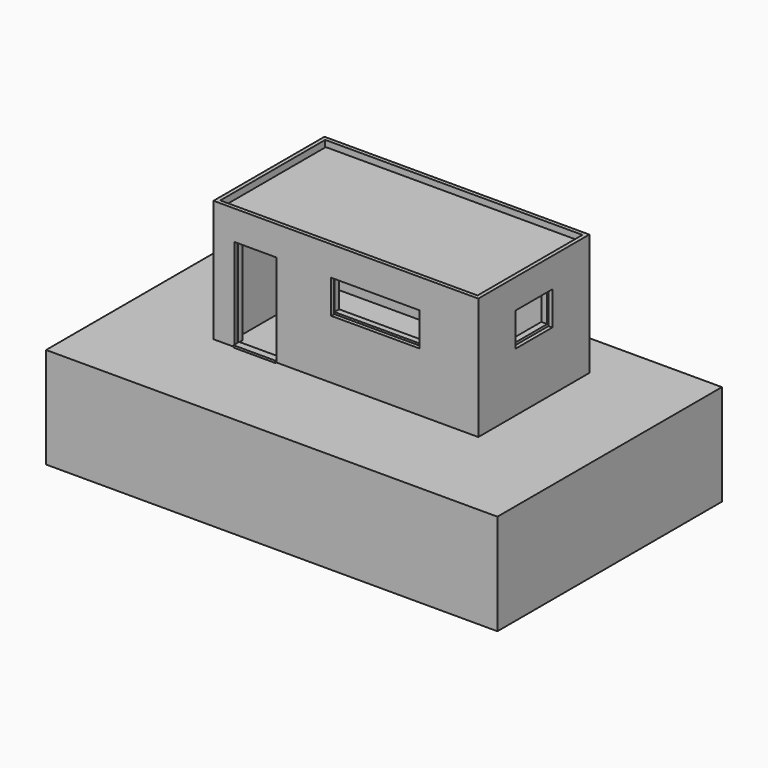
from build123d import *

# Parameters (mm, degrees)
F0_W      = 6500
F0_H      = 3500
F1_DEPTH  = 150
F2_W      = 6300
F2_H      = 3300
F2_W_2    = 6020
F2_H_2    = 3020
F3_DEPTH  = 2100
F4_W      = 6300
F4_H      = 3300
F4_W_2    = 2000
F4_H_2    = 800
F5_DEPTH  = 150
F6_R      = 75
F7_DEPTH  = 6400.001
F8_W      = 6300
F8_H      = 3300
F8_W_2    = 6120
F8_H_2    = 3120
F9_DEPTH  = 2900
F10_W     = 5980
F10_H     = 2980
F10_W_2   = 5700
F10_H_2   = 2700
F11_DEPTH = 2700
F12_W     = 1000
F12_H     = 2200
F12_W_2   = 2100
F12_H_2   = 800
F13_DEPTH = 90
F14_W     = 1100
F14_H     = 2250
F14_W_2   = 2200
F14_H_2   = 850
F15_DEPTH = 140
F16_W     = 1100
F16_H     = 800
F17_DEPTH = 90
F18_W     = 1200
F18_H     = 850
F19_DEPTH = 140
F20_W     = 35
F20_H     = 2980
F21_DEPTH = 180
F22_W     = 5980
F22_H     = 2980
F23_DEPTH = 20
F24_W     = 5980
F24_H     = 2980
F25_DEPTH = 80
F26_W     = 1000
F26_H     = 170
F27_DEPTH = 50
F28_W     = 10738.0881309509
F28_H     = 6676.0444641113
F28_W_2   = 6300
F28_H_2   = 3300
F29_DEPTH = 2400


with BuildPart() as f1:
    # F0 (on Top) → F1 (new body)
    with BuildSketch(Plane.XY):
        Rectangle(F0_W, F0_H)
    extrude(amount=F1_DEPTH)

    # F2 (on face) → F3 (join)
    with BuildSketch(Plane.XY.offset(150)):
        Rectangle(F2_W, F2_H)
        Rectangle(F2_W_2, F2_H_2, mode=Mode.SUBTRACT)
    extrude(amount=F3_DEPTH)

    # F4 (on face) → F5 (join)
    with BuildSketch(Plane.XY.offset(2250)):
        Rectangle(F4_W, F4_H)
        with Locations((1010, -950)):
            Rectangle(F4_W_2, F4_H_2, mode=Mode.SUBTRACT)
    extrude(amount=F5_DEPTH)

    # F6 (on face) → F7 (cut, through all)
    with BuildSketch(Plane(origin=(-3150, 0, 0), x_dir=(0, -1, 0), z_dir=(-1, 0, 0))):
        with Locations((-1340, 2150)):
            Circle(F6_R)
        with Locations((1340, 2150)):
            Circle(F6_R)
    extrude(amount=-F7_DEPTH, mode=Mode.SUBTRACT)


with BuildPart() as f9:
    # F8 (on face) → F9 (new body)
    with BuildSketch(Plane.XY.offset(2400)):
        Rectangle(F8_W, F8_H)
        Rectangle(F8_W_2, F8_H_2, mode=Mode.SUBTRACT)
    extrude(amount=F9_DEPTH)

    # F12 (on face) → F13 (cut, through all)
    with BuildSketch(Plane.XZ.offset(1650)):
        with Locations((-2150, 3500)):
            Rectangle(F12_W, F12_H)
        with Locations((700, 4200)):
            Rectangle(F12_W_2, F12_H_2)
    extrude(amount=-F13_DEPTH, mode=Mode.SUBTRACT)

    # F16 (on face) → F17 (cut, through all)
    with BuildSketch(Plane.YZ.offset(3150)):
        with Locations((0, 4200)):
            Rectangle(F16_W, F16_H)
    extrude(amount=-F17_DEPTH, mode=Mode.SUBTRACT)


with BuildPart() as f11:
    # F10 (on face) → F11 (new body)
    with BuildSketch(Plane.XY.offset(2400)):
        Rectangle(F10_W, F10_H)
        Rectangle(F10_W_2, F10_H_2, mode=Mode.SUBTRACT)
    extrude(amount=F11_DEPTH)

    # F14 (on face) → F15 (cut, through all)
    with BuildSketch(Plane.XZ.offset(1490)):
        with Locations((-2150, 3525)):
            Rectangle(F14_W, F14_H)
        with Locations((700, 4225)):
            Rectangle(F14_W_2, F14_H_2)
    extrude(amount=-F15_DEPTH, mode=Mode.SUBTRACT)

    # F18 (on face) → F19 (cut, through all)
    with BuildSketch(Plane.YZ.offset(2990)):
        with Locations((0, 4225)):
            Rectangle(F18_W, F18_H)
    extrude(amount=-F19_DEPTH, mode=Mode.SUBTRACT)


with BuildPart() as f21:
    # F20 (on face) → F21 (new body)
    with BuildSketch(Plane.XY.offset(5100)):
        with Locations((-2832.5, 0)):
            Rectangle(F20_W, F20_H)
    extrude(amount=-F21_DEPTH)


with BuildPart() as f21b:
    # F20 (on face) → F21, piece 2 (new body)
    with BuildSketch(Plane.XY.offset(5100)):
        with Locations((-2499.5, 0)):
            Rectangle(F20_W, F20_H)
    extrude(amount=-F21_DEPTH)


with BuildPart() as f21c:
    # F20 (on face) → F21, piece 3 (new body)
    with BuildSketch(Plane.XY.offset(5100)):
        with Locations((-2166.5, 0)):
            Rectangle(F20_W, F20_H)
    extrude(amount=-F21_DEPTH)


with BuildPart() as f21d:
    # F20 (on face) → F21, piece 4 (new body)
    with BuildSketch(Plane.XY.offset(5100)):
        with Locations((-1833.5, 0)):
            Rectangle(F20_W, F20_H)
    extrude(amount=-F21_DEPTH)


with BuildPart() as f21e:
    # F20 (on face) → F21, piece 5 (new body)
    with BuildSketch(Plane.XY.offset(5100)):
        with Locations((-1500.5, 0)):
            Rectangle(F20_W, F20_H)
    extrude(amount=-F21_DEPTH)


with BuildPart() as f21f:
    # F20 (on face) → F21, piece 6 (new body)
    with BuildSketch(Plane.XY.offset(5100)):
        with Locations((-1167.5, 0)):
            Rectangle(F20_W, F20_H)
    extrude(amount=-F21_DEPTH)


with BuildPart() as f21g:
    # F20 (on face) → F21, piece 7 (new body)
    with BuildSketch(Plane.XY.offset(5100)):
        with Locations((-834.5, 0)):
            Rectangle(F20_W, F20_H)
    extrude(amount=-F21_DEPTH)


with BuildPart() as f21h:
    # F20 (on face) → F21, piece 8 (new body)
    with BuildSketch(Plane.XY.offset(5100)):
        with Locations((-501.5, 0)):
            Rectangle(F20_W, F20_H)
    extrude(amount=-F21_DEPTH)


with BuildPart() as f21i:
    # F20 (on face) → F21, piece 9 (new body)
    with BuildSketch(Plane.XY.offset(5100)):
        with Locations((-168.5, 0)):
            Rectangle(F20_W, F20_H)
    extrude(amount=-F21_DEPTH)


with BuildPart() as f21j:
    # F20 (on face) → F21, piece 10 (new body)
    with BuildSketch(Plane.XY.offset(5100)):
        with Locations((164.5, 0)):
            Rectangle(F20_W, F20_H)
    extrude(amount=-F21_DEPTH)


with BuildPart() as f21k:
    # F20 (on face) → F21, piece 11 (new body)
    with BuildSketch(Plane.XY.offset(5100)):
        with Locations((497.5, 0)):
            Rectangle(F20_W, F20_H)
    extrude(amount=-F21_DEPTH)


with BuildPart() as f21l:
    # F20 (on face) → F21, piece 12 (new body)
    with BuildSketch(Plane.XY.offset(5100)):
        with Locations((830.5, 0)):
            Rectangle(F20_W, F20_H)
    extrude(amount=-F21_DEPTH)


with BuildPart() as f21m:
    # F20 (on face) → F21, piece 13 (new body)
    with BuildSketch(Plane.XY.offset(5100)):
        with Locations((1163.5, 0)):
            Rectangle(F20_W, F20_H)
    extrude(amount=-F21_DEPTH)


with BuildPart() as f21n:
    # F20 (on face) → F21, piece 14 (new body)
    with BuildSketch(Plane.XY.offset(5100)):
        with Locations((1496.5, 0)):
            Rectangle(F20_W, F20_H)
    extrude(amount=-F21_DEPTH)


with BuildPart() as f21o:
    # F20 (on face) → F21, piece 15 (new body)
    with BuildSketch(Plane.XY.offset(5100)):
        with Locations((1829.5, 0)):
            Rectangle(F20_W, F20_H)
    extrude(amount=-F21_DEPTH)


with BuildPart() as f21p:
    # F20 (on face) → F21, piece 16 (new body)
    with BuildSketch(Plane.XY.offset(5100)):
        with Locations((2162.5, 0)):
            Rectangle(F20_W, F20_H)
    extrude(amount=-F21_DEPTH)


with BuildPart() as f21q:
    # F20 (on face) → F21, piece 17 (new body)
    with BuildSketch(Plane.XY.offset(5100)):
        with Locations((2495.5, 0)):
            Rectangle(F20_W, F20_H)
    extrude(amount=-F21_DEPTH)


with BuildPart() as f21r:
    # F20 (on face) → F21, piece 18 (new body)
    with BuildSketch(Plane.XY.offset(5100)):
        with Locations((2828.5, 0)):
            Rectangle(F20_W, F20_H)
    extrude(amount=-F21_DEPTH)


with BuildPart() as f23:
    # F22 (on face) → F23 (new body)
    with BuildSketch(Plane.XY.offset(5100)):
        Rectangle(F22_W, F22_H)
    extrude(amount=F23_DEPTH)


with BuildPart() as f25:
    # F24 (on face) → F25 (new body)
    with BuildSketch(Plane.XY.offset(5120)):
        Rectangle(F24_W, F24_H)
    extrude(amount=F25_DEPTH)


with BuildPart() as f27:
    # F26 (on face) → F27 (new body)
    with BuildSketch(Plane.XY.offset(2400)):
        with Locations((-2150, -1595)):
            Rectangle(F26_W, F26_H)
    extrude(amount=F27_DEPTH)


with BuildPart() as f29:
    # F28 (on face) → F29 (new body)
    with BuildSketch(Plane.XY.offset(2400)):
        with Locations((59.7026348114, -591.4363861084)):
            Rectangle(F28_W, F28_H)
        Rectangle(F28_W_2, F28_H_2, mode=Mode.SUBTRACT)
    extrude(amount=-F29_DEPTH)


solid = Compound([f1.part, f9.part, f11.part, f21.part, f21b.part, f21c.part, f21d.part, f21e.part, f21f.part, f21g.part, f21h.part, f21i.part, f21j.part, f21k.part, f21l.part, f21m.part, f21n.part, f21o.part, f21p.part, f21q.part, f21r.part, f23.part, f25.part, f27.part, f29.part])
